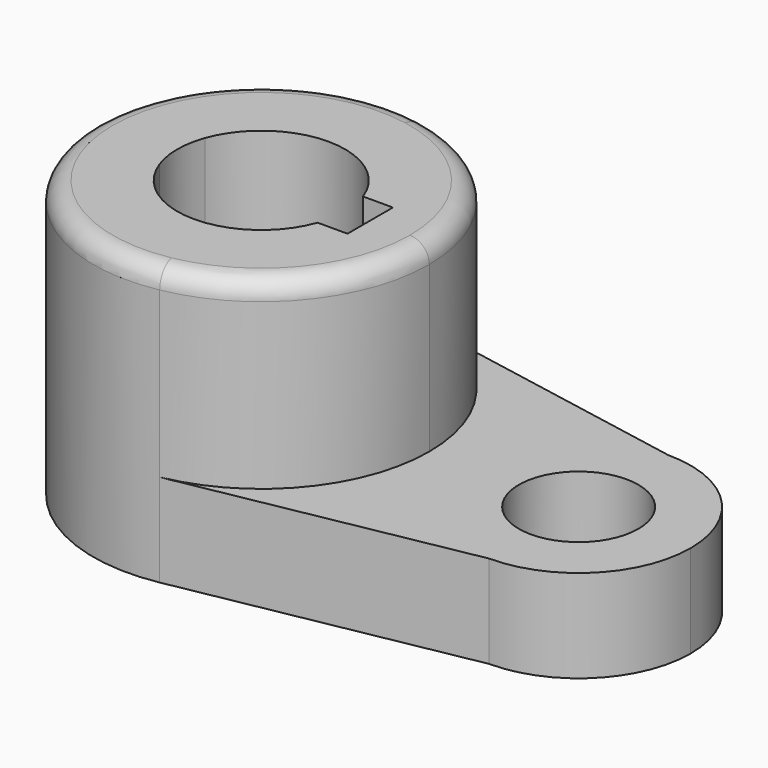
from build123d import *

# Parameters (mm, degrees)
F1_DEPTH = 47.0916
F0_R     = 10.16
F2_DEPTH = 15.7734
F3_R     = 3.302


with BuildPart() as f1:
    # F0 (on Top) → F1 (new body)
    with BuildSketch(Plane.XY):
        with BuildLine():
            ThreePointArc((5.848104, -28.095686), (22.607385, -18.270235), (29.211287, 0))
            ThreePointArc((29.211287, 0), (22.607385, 18.270235), (5.848103, 28.095686))
            ThreePointArc((5.848103, 28.095686), (-27.938713, 0), (5.848104, -28.095686))
        make_face()
        with BuildLine():
            ThreePointArc((-12.811478, 4.826), (0.636287, 14.2875), (14.084052, 4.826))
            Line((14.084052, 4.826), (19.165587, 4.826))
            Line((19.165587, 4.826), (19.165587, -4.826))
            Line((19.165587, -4.826), (14.084052, -4.826))
            ThreePointArc((14.084052, -4.826), (0.636287, -14.2875), (-12.811478, -4.826))
            Line((-12.811478, -4.826), (-19.165587, -4.826))
            Line((-19.165587, -4.826), (-19.165587, 4.826))
            Line((-19.165587, 4.826), (-12.811478, 4.826))
        make_face(mode=Mode.SUBTRACT)
        with BuildLine():
            ThreePointArc((-12.811478, -4.826), (-13.651213, 0), (-12.811478, 4.826))
            Line((-12.811478, 4.826), (-19.165587, 4.826))
            Line((-19.165587, 4.826), (-19.165587, -4.826))
            Line((-19.165587, -4.826), (-12.811478, -4.826))
        make_face()
    extrude(amount=F1_DEPTH)

    # F0 (on Top) → F2 (join)
    with BuildSketch(Plane.XY):
        with BuildLine():
            ThreePointArc((5.848103, 28.095686), (22.607385, 18.270235), (29.211287, 0))
            ThreePointArc((29.211287, 0), (22.607385, -18.270235), (5.848104, -28.095686))
            Line((5.848104, -28.095686), (54.611287, -19.05))
            ThreePointArc((54.611287, -19.05), (68.081671, -13.470384), (73.661287, 0))
            ThreePointArc((73.661287, 0), (68.081671, 13.470384), (54.611287, 19.05))
            Line((54.611287, 19.05), (5.848103, 28.095686))
        make_face()
        with Locations((54.611287, 0)):
            Circle(F0_R, mode=Mode.SUBTRACT)
    extrude(amount=F2_DEPTH)

    # F3
    f3_edges = [f1.edges().sort_by_distance(p)[0] for p in [
        (-4.57553, 28.095686, 47.0916),
    ]]
    fillet(f3_edges, radius=F3_R)


solid = f1.part
